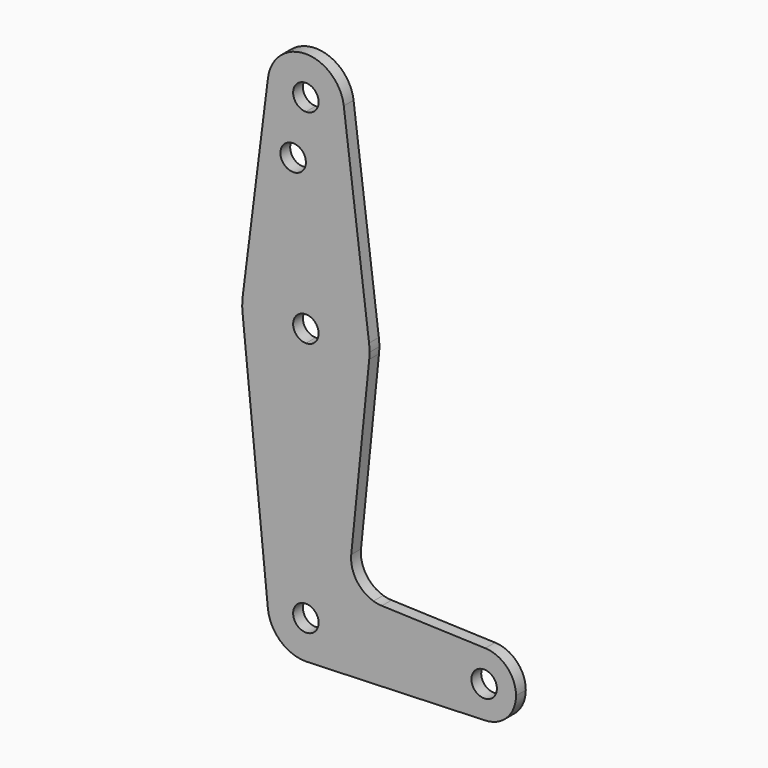
from build123d import *

# Parameters (mm, degrees)
F0_R     = 3.175
F1_DEPTH = 3.048


with BuildPart() as f1:
    # F0 (on Front) → F1 (new body)
    with BuildSketch(Plane.XZ):
        with BuildLine():
            Line((-9.4502929642, 115.490625), (-15.7504882737, 65.484375))
            ThreePointArc((-15.7504882737, 65.484375), (-10.5003255158, 75.40625), (0, 79.375))
            Line((0, 79.375), (0, 100.0252))
            Line((0, 100.0252), (0, 104.775))
            ThreePointArc((0, 104.775), (-7.14375, 107.9998046905), (-9.4502929642, 115.490625))
        make_face()
        with Locations((-3.175, 100.0252)):
            Circle(F0_R, mode=Mode.SUBTRACT)
        with BuildLine():
            Line((0, 100.0252), (0, 79.375))
            ThreePointArc((0, 79.375), (10.5003255032, 75.4062500111), (15.7504882695, 65.4843750333))
            Line((15.7504882695, 65.4843750333), (9.4502929642, 115.490625))
            ThreePointArc((9.4502929642, 115.490625), (9.5063048942, 114.896483242), (9.525, 114.3))
            ThreePointArc((9.525, 114.3), (6.7351920908, 107.5648079092), (0, 104.775))
            Line((0, 104.775), (0, 100.0252))
        make_face()
        with BuildLine():
            ThreePointArc((9.4502929642, 115.490625), (0, 123.825), (-9.4502929642, 115.490625))
            ThreePointArc((-9.4502929642, 115.490625), (-7.14375, 107.9998046905), (0, 104.775))
            ThreePointArc((0, 104.775), (6.7351920908, 107.5648079092), (9.525, 114.3))
            ThreePointArc((9.525, 114.3), (9.5063048942, 114.896483242), (9.4502929642, 115.490625))
        make_face()
        with BuildLine():
            ThreePointArc((3.175, 114.3), (2.2450640303, 112.0549359697), (0, 111.125))
            ThreePointArc((0, 111.125), (-2.2450640303, 116.5450640303), (3.175, 114.3))
        make_face(mode=Mode.SUBTRACT)
        with BuildLine():
            Line((0, 60.325), (0, 47.625))
            ThreePointArc((0, 47.625), (10.644756084, 51.722700101), (15.7942028036, 61.9003804205))
            ThreePointArc((15.7942028036, 61.9003804205), (15.8547878338, 62.6991705884), (15.875, 63.5))
            ThreePointArc((15.875, 63.5), (15.8438414893, 64.4941387534), (15.7504882695, 65.4843750333))
            ThreePointArc((15.7504882695, 65.4843750333), (10.5003255032, 75.4062500111), (0, 79.375))
            Line((0, 79.375), (0, 66.675))
            ThreePointArc((0, 66.675), (2.2450640303, 65.7450640303), (3.175, 63.5))
            ThreePointArc((3.175, 63.5), (2.2450640303, 61.2549359697), (0, 60.325))
        make_face()
        with BuildLine():
            ThreePointArc((-15.7954255641, 61.9125), (-10.6492737428, 51.7267849017), (0, 47.625))
            Line((0, 47.625), (0, 60.325))
            ThreePointArc((0, 60.325), (-3.175, 63.5), (0, 66.675))
            Line((0, 66.675), (0, 79.375))
            ThreePointArc((0, 79.375), (-10.5003255158, 75.40625), (-15.7504882737, 65.484375))
            ThreePointArc((-15.7504882737, 65.484375), (-15.8737438155, 63.6997054867), (-15.7954255641, 61.9125))
        make_face()
        with BuildLine():
            ThreePointArc((0, 9.525), (6.7351920908, 6.7351920908), (9.525, 0))
            Line((9.525, 0), (36.5125, 0))
            ThreePointArc((36.5125, 0), (38.9384772185, 5.7120069047), (44.7334821429, 7.9324362036))
            Line((44.7334821429, 7.9324362036), (18.9333780848, 8.8544567023))
            ThreePointArc((18.9333780848, 8.8544567023), (17.8785871645, 8.9629087842), (16.8476104265, 9.2107650033))
            ThreePointArc((16.8476104265, 9.2107650033), (12.5829813657, 12.4187956966), (11.3075770351, 17.6006742893))
            Line((11.3075770351, 17.6006742893), (15.7942028036, 61.9003804205))
            ThreePointArc((15.7942028036, 61.9003804205), (10.644756084, 51.722700101), (0, 47.625))
            Line((0, 47.625), (0, 9.525))
        make_face()
        with BuildLine():
            ThreePointArc((0, 3.175), (2.2450640303, 2.2450640303), (3.175, 0))
            Line((3.175, 0), (9.525, 0))
            ThreePointArc((9.525, 0), (6.7351920908, 6.7351920908), (0, 9.525))
            Line((0, 9.525), (0, 3.175))
        make_face()
        with BuildLine():
            ThreePointArc((-9.4772553384, -0.9525), (-7.063929059, 6.3895642457), (0, 9.525))
            Line((0, 9.525), (0, 47.625))
            ThreePointArc((0, 47.625), (-10.6492737428, 51.7267849017), (-15.7954255641, 61.9125))
            Line((-15.7954255641, 61.9125), (-9.4772553384, -0.9525))
        make_face()
        with BuildLine():
            Line((9.525, 0), (3.175, 0))
            ThreePointArc((3.175, 0), (-2.2450640303, -2.2450640303), (0, 3.175))
            Line((0, 3.175), (0, 9.525))
            ThreePointArc((0, 9.525), (-7.063929059, 6.3895642457), (-9.4772553384, -0.9525))
            ThreePointArc((-9.4772553384, -0.9525), (-6.3895642457, -7.063929059), (0, -9.525))
            Line((0, -9.525), (0.6773435479, -9.500885786))
            ThreePointArc((0.6773435479, -9.500885786), (6.9705567315, -6.4912990883), (9.525, 0))
        make_face()
        with BuildLine():
            Line((36.5125, 0), (9.525, 0))
            ThreePointArc((9.525, 0), (6.9705567315, -6.4912990883), (0.6773435479, -9.500885786))
            Line((0.6773435479, -9.500885786), (44.7324052746, -7.9324746146))
            ThreePointArc((44.7324052746, -7.9324746146), (38.9380895153, -5.7116327839), (36.5125, 0))
        make_face()
        with BuildLine():
            ThreePointArc((44.7334821429, 7.9324362036), (38.9384772185, 5.7120069047), (36.5125, 0))
            ThreePointArc((36.5125, 0), (38.9380895153, -5.7116327839), (44.7324052746, -7.9324746146))
            ThreePointArc((44.7324052746, -7.9324746146), (50.1616327839, -5.5119104847), (52.3875, 0))
            ThreePointArc((52.3875, 0), (50.1620069047, 5.5115227815), (44.7334821429, 7.9324362036))
        make_face()
        with BuildLine():
            ThreePointArc((47.625, 0), (44.45, -3.175), (41.275, 0))
            ThreePointArc((41.275, 0), (44.45, 3.175), (47.625, 0))
        make_face(mode=Mode.SUBTRACT)
    extrude(amount=F1_DEPTH)


solid = f1.part
